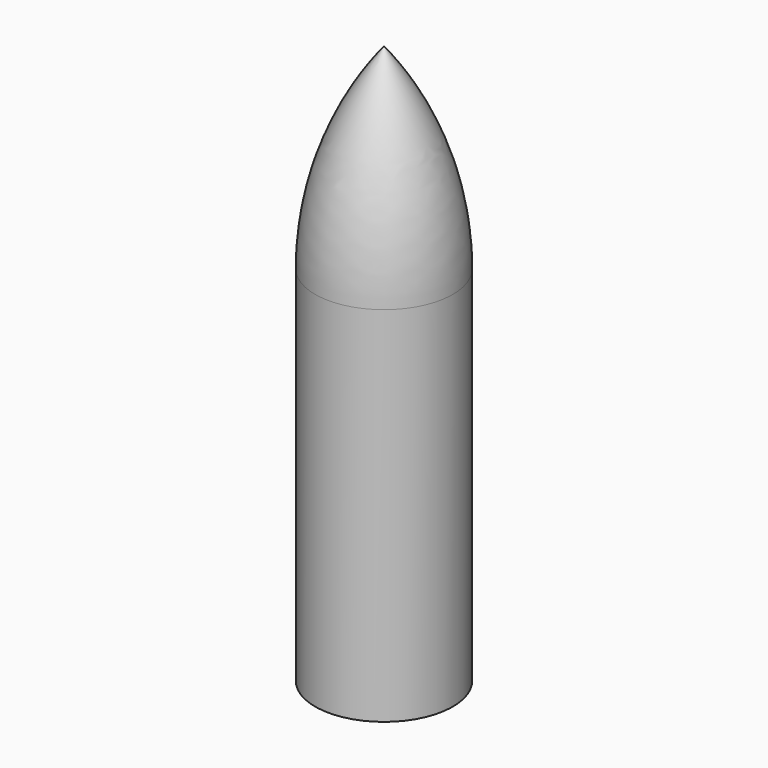
from build123d import *


with BuildPart() as f1:
    # F0 (on Right) → F1 (revolve)
    with BuildSketch(Plane.YZ):
        with BuildLine():
            Line((0, 64), (0, 0))
            Line((0, 0), (4, 0))
            Line((4, 0), (4, 5.506055))
            ThreePointArc((4, 5.506055), (4.568491, 6.885156), (5.943685, 7.463035))
            ThreePointArc((5.943685, 7.463035), (8.106086, 8.371712), (9, 10.540258))
            Line((9, 10.540258), (9, 55))
            ThreePointArc((9, 55), (6.363961, 61.363961), (0, 64))
        make_face()
    revolve(axis=Axis((0, 0, 32), (0, 0, 1)))


with BuildPart() as f3:
    # F2 (on Right) → F3 (revolve)
    with BuildSketch(Plane.YZ):
        with BuildLine():
            Line((0, 93.362115), (0, 65.443695))
            Line((0, 65.443695), (9.5, 60.594067))
            Line((9.5, 60.594067), (9.5, 0))
            Line((9.5, 0), (11.5, 0))
            Line((11.5, 0), (11.5, 60.594067))
            ThreePointArc((11.5, 60.594067), (8.541539, 77.957786), (0, 93.362115))
        make_face()
    revolve(axis=Axis((0, 0, 46.681058), (0, 0, 1)))


solid = Compound([f1.part, f3.part])
